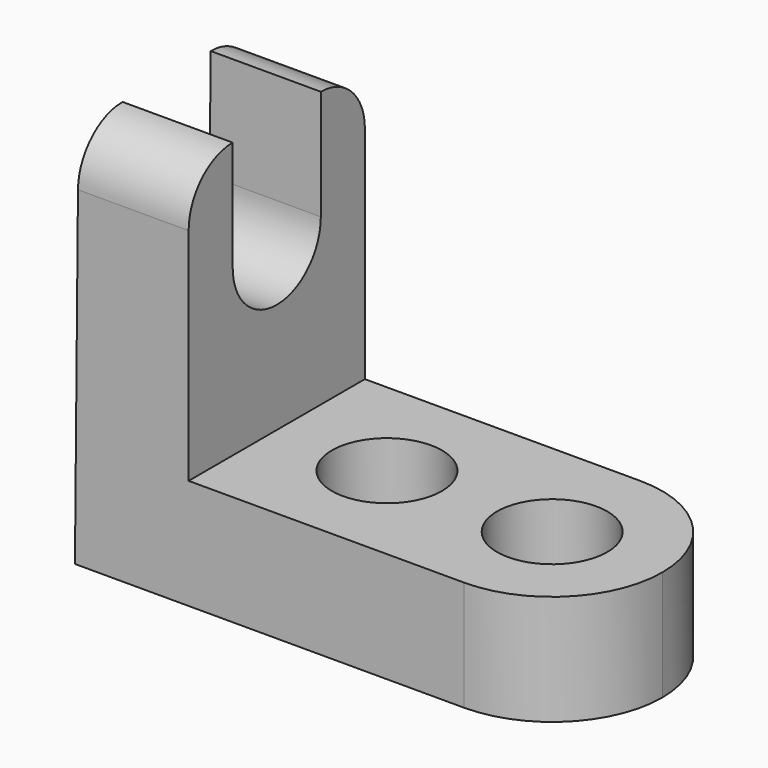
from build123d import *

# Parameters (mm, degrees)
F1_DEPTH = 25.4
F2_R     = 6.35
F3_DEPTH = 25.4
F5_DEPTH = 25.4
F7_DEPTH = 25.4


with BuildPart() as f1:
    # F0 (on Front) → F1 (new body)
    with BuildSketch(Plane.XZ):
        Polygon((-22.412052, 32.592865), (-35.112052, 32.592865), (-35.519832, -11.855265), (22.037948, -11.855265), (22.037948, 0.844735), (-22.412052, 0.844735), align=None)
    extrude(amount=F1_DEPTH)

    # F2 (on face) → F3 (cut)
    with BuildSketch(Plane.XY.offset(0.844735)):
        with Locations((-9.712052, -12.7)):
            Circle(F2_R)
        with Locations((9.337948, -12.7)):
            Circle(F2_R)
        with BuildLine():
            Line((22.037948, 0), (9.337948, 0))
            ThreePointArc((9.337948, 0), (18.318204, -3.719744), (22.037948, -12.7))
            Line((22.037948, -12.7), (22.037948, 0))
        make_face()
        with BuildLine():
            Line((22.037948, -25.4), (22.037948, -12.7))
            ThreePointArc((22.037948, -12.7), (18.318204, -21.680256), (9.337948, -25.4))
            Line((9.337948, -25.4), (22.037948, -25.4))
        make_face()
    extrude(amount=-F3_DEPTH, mode=Mode.SUBTRACT)

    # F4 (on face) → F5 (cut)
    with BuildSketch(Plane.YZ.offset(-22.412052)):
        with BuildLine():
            ThreePointArc((-25.4, 26.242865), (-23.540128, 30.732993), (-19.05, 32.592865))
            Line((-19.05, 32.592865), (-25.4, 32.592865))
            Line((-25.4, 32.592865), (-25.4, 26.242865))
        make_face()
        with BuildLine():
            Line((0, 32.592865), (-6.35, 32.592865))
            ThreePointArc((-6.35, 32.592865), (-1.859872, 30.732993), (0, 26.242865))
            Line((0, 26.242865), (0, 32.592865))
        make_face()
    extrude(amount=-F5_DEPTH, mode=Mode.SUBTRACT)

    # F6 (on face) → F7 (cut)
    with BuildSketch(Plane.YZ.offset(-22.412052)):
        with BuildLine():
            ThreePointArc((-19.05, 19.894735), (-12.7, 26.244735), (-6.35, 19.894735))
            Line((-6.35, 19.894735), (-6.35, 32.592865))
            Line((-6.35, 32.592865), (-19.05, 32.592865))
            Line((-19.05, 32.592865), (-19.05, 19.894735))
        make_face()
        with BuildLine():
            ThreePointArc((-19.05, 19.894735), (-12.7, 13.544735), (-6.35, 19.894735))
            ThreePointArc((-6.35, 19.894735), (-12.7, 26.244735), (-19.05, 19.894735))
        make_face()
    extrude(amount=-F7_DEPTH, mode=Mode.SUBTRACT)


solid = f1.part
